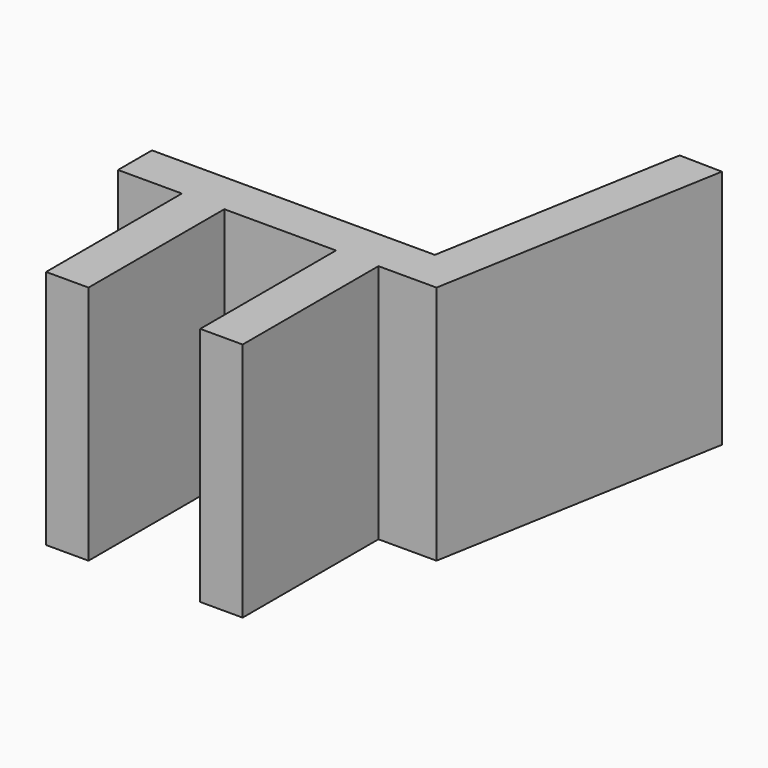
from build123d import *

# Parameters (mm, degrees)
F0_W     = 76.2
F0_H     = 304.8
F1_DEPTH = 431.8


with BuildPart() as f1:
    # F0 (on Top) → F1 (new body)
    with BuildSketch(Plane.XY):
        Polygon((-269.017517, 76.2), (-269.017517, 0), (-154.352903, 0), (-78.152903, 0), (122.433022, 0), (198.633022, 0), (302.921875, 0), (395.484865, 524.950802), (318.37443, 526.454105), (238.982483, 76.2), align=None)
        with Locations((-116.252903, -152.4)):
            Rectangle(F0_W, F0_H)
        with Locations((160.533022, -152.4)):
            Rectangle(F0_W, F0_H)
    extrude(amount=F1_DEPTH)


solid = f1.part
